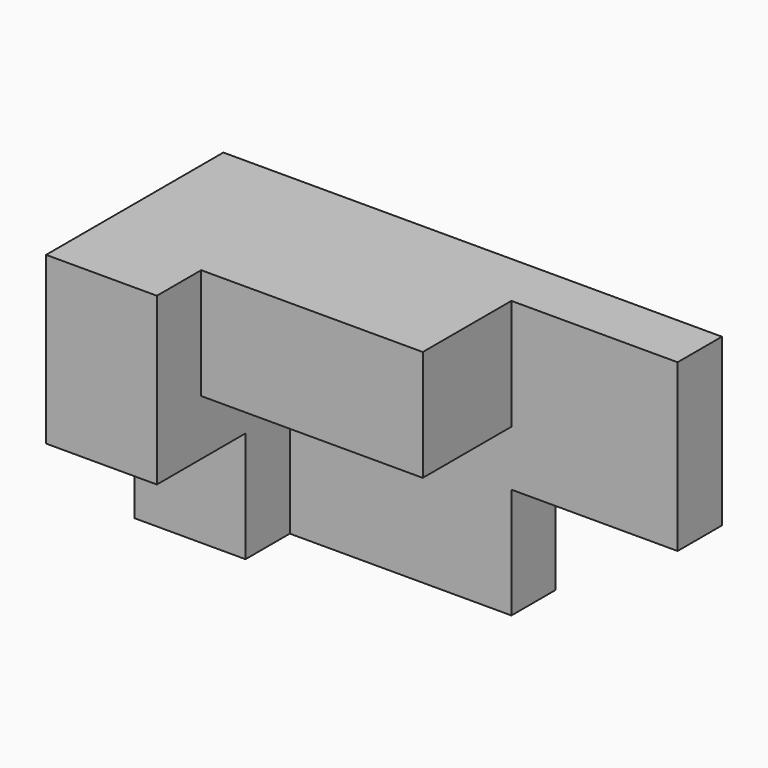
from build123d import *

# Parameters (mm, degrees)
F0_W     = 90
F0_H     = 50
F1_DEPTH = 40
F2_W     = 30
F2_H     = 20
F3_DEPTH = 40.001
F4_W     = 20
F4_H     = 20
F5_DEPTH = 20
F6_W     = 40
F6_H     = 20
F7_DEPTH = 10
F9_DEPTH = 30


with BuildPart() as f1:
    # F0 (on Front) → F1 (new body)
    with BuildSketch(Plane.XZ):
        Rectangle(F0_W, F0_H)
    extrude(amount=F1_DEPTH)

    # F2 (on face) → F3 (cut, through all)
    with BuildSketch(Plane.XZ.offset(40)):
        with Locations((30, -15)):
            Rectangle(F2_W, F2_H)
    extrude(amount=-F3_DEPTH, mode=Mode.SUBTRACT)

    # F4 (on face) → F5 (cut)
    with BuildSketch(Plane.XZ.offset(40)):
        with Locations((-35, -15)):
            Rectangle(F4_W, F4_H)
    extrude(amount=-F5_DEPTH, mode=Mode.SUBTRACT)

    # F6 (on face) → F7 (cut)
    with BuildSketch(Plane.XZ.offset(40)):
        with Locations((-5, 15)):
            Rectangle(F6_W, F6_H)
    extrude(amount=-F7_DEPTH, mode=Mode.SUBTRACT)

    # F8 (on face) → F9 (cut)
    with BuildSketch(Plane.XZ.offset(40)):
        Polygon((15, 5), (-25, 5), (-25, -5), (-25, -25), (15, -25), (15, -5), (45, -5), (45, 25), (15, 25), align=None)
    extrude(amount=-F9_DEPTH, mode=Mode.SUBTRACT)


solid = f1.part
